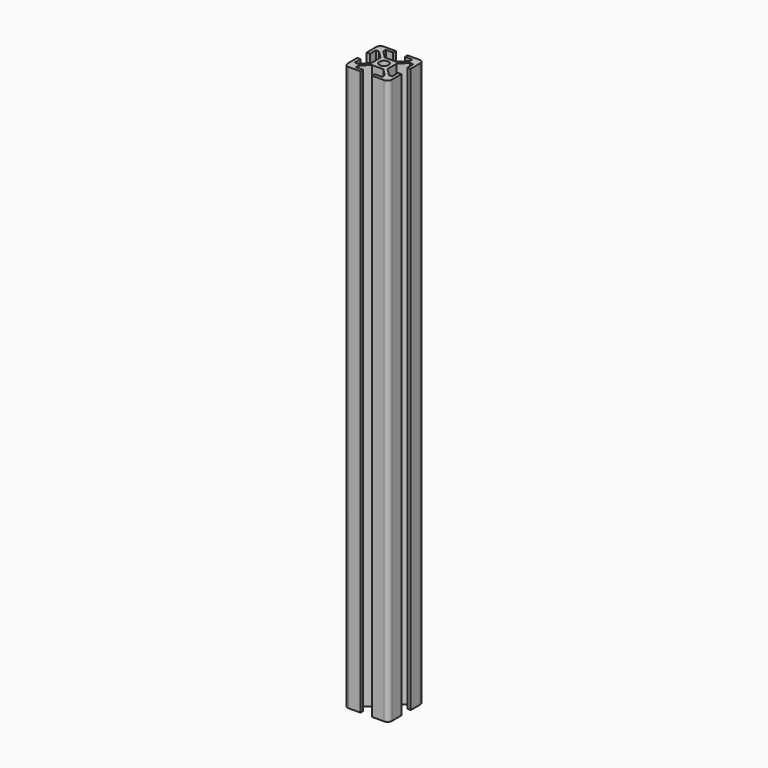
from build123d import *

# Parameters (mm, degrees)
F0_R          = 2.08
F1_DEPTH      = 128
F1_DEPTH_BACK = 128


with BuildPart() as f1:
    # F0 (on Top) → F1 (new body, two sides)
    with BuildSketch(Plane.XY) as f1_sk:
        with BuildLine():
            Line((-2.63, 10), (-8, 10))
            ThreePointArc((-8, 10), (-9.414214, 9.414214), (-10, 8))
            Line((-10, 8), (-10, 2.63))
            Line((-10, 2.63), (-8.5, 2.63))
            Line((-8.5, 2.63), (-8.5, 6))
            Line((-8.5, 6), (-7.06066, 6))
            Line((-7.06066, 6), (-3.66, 2.59934))
            Line((-3.66, 2.59934), (-3.66, -2.59934))
            Line((-3.66, -2.59934), (-7.06066, -6))
            Line((-7.06066, -6), (-8.5, -6))
            Line((-8.5, -6), (-8.5, -2.63))
            Line((-8.5, -2.63), (-10, -2.63))
            Line((-10, -2.63), (-10, -8))
            ThreePointArc((-10, -8), (-9.414214, -9.414214), (-8, -10))
            Line((-8, -10), (-2.63, -10))
            Line((-2.63, -10), (-2.63, -8.5))
            Line((-2.63, -8.5), (-6, -8.5))
            Line((-6, -8.5), (-6, -7.06066))
            Line((-6, -7.06066), (-2.59934, -3.66))
            Line((-2.59934, -3.66), (2.59934, -3.66))
            Line((2.59934, -3.66), (6, -7.06066))
            Line((6, -7.06066), (6, -8.5))
            Line((6, -8.5), (2.63, -8.5))
            Line((2.63, -8.5), (2.63, -10))
            Line((2.63, -10), (8, -10))
            ThreePointArc((8, -10), (9.414214, -9.414214), (10, -8))
            Line((10, -8), (10, -2.63))
            Line((10, -2.63), (8.5, -2.63))
            Line((8.5, -2.63), (8.5, -6))
            Line((8.5, -6), (7.06066, -6))
            Line((7.06066, -6), (3.66, -2.59934))
            Line((3.66, -2.59934), (3.66, 2.59934))
            Line((3.66, 2.59934), (7.06066, 6))
            Line((7.06066, 6), (8.5, 6))
            Line((8.5, 6), (8.5, 2.63))
            Line((8.5, 2.63), (10, 2.63))
            Line((10, 2.63), (10, 8))
            ThreePointArc((10, 8), (9.414214, 9.414214), (8, 10))
            Line((8, 10), (2.63, 10))
            Line((2.63, 10), (2.63, 8.5))
            Line((2.63, 8.5), (6, 8.5))
            Line((6, 8.5), (6, 7.06066))
            Line((6, 7.06066), (2.59934, 3.66))
            Line((2.59934, 3.66), (-2.59934, 3.66))
            Line((-2.59934, 3.66), (-6, 7.06066))
            Line((-6, 7.06066), (-6, 8.5))
            Line((-6, 8.5), (-2.63, 8.5))
            Line((-2.63, 8.5), (-2.63, 10))
        make_face()
        Circle(F0_R, mode=Mode.SUBTRACT)
    extrude(amount=F1_DEPTH)
    extrude(f1_sk.sketch, amount=-F1_DEPTH_BACK)


solid = f1.part
